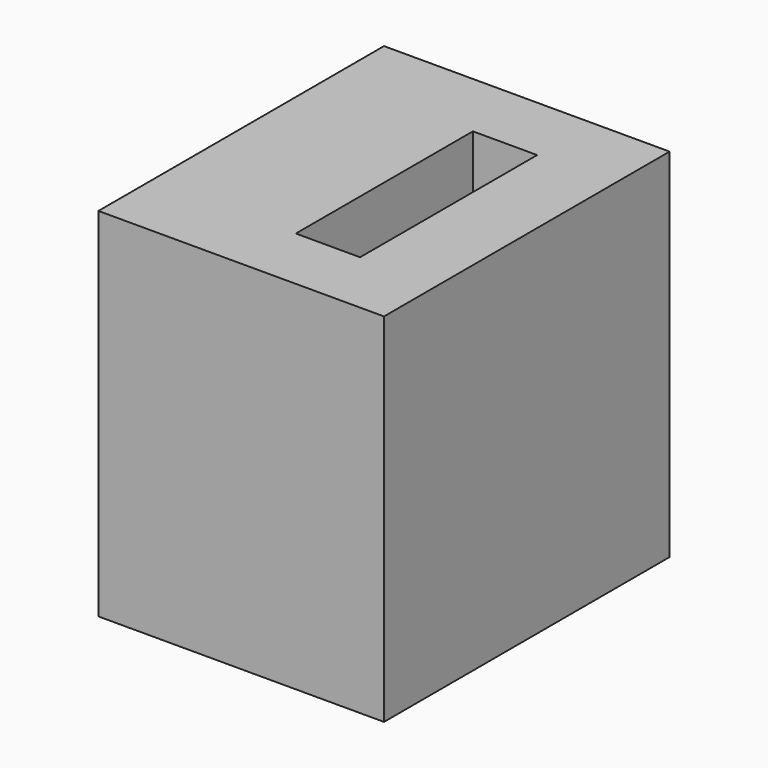
from build123d import *

# Parameters (mm, degrees)
SKETCH038_W             = 10
SKETCH038_H             = 10
PAD014_DEPTH            = 8
SKETCH039_R             = 1.45
POCKET009_DEPTH         = 5
SKETCH040_W             = 6.2
SKETCH040_H             = 1.8
POCKET010_DEPTH         = 15
BODY015_PLACEMENT_ANGLE = 90


with BuildPart() as part:
    # Sketch038 → Pad014 (new body)
    with BuildSketch(Plane.XY):
        with Locations((0.72243, -0.901424)):
            Rectangle(SKETCH038_W, SKETCH038_H)
    extrude(amount=PAD014_DEPTH)

    # Sketch039 (on Face6 of Pad014) → Pocket009 (cut)
    with BuildSketch(Plane.XY.offset(8)):
        with Locations((0.772802, -1.024983)):
            Circle(SKETCH039_R)
    extrude(amount=-POCKET009_DEPTH, mode=Mode.SUBTRACT)

    # Sketch040 (on Face2 of Pocket009) → Pocket010 (cut)
    with BuildSketch(Plane(origin=(-4.27757, 0, 0), x_dir=(0, -1, 0), z_dir=(-1, 0, 0))):
        with Locations((0.940135, 3.059345)):
            Rectangle(SKETCH040_W, SKETCH040_H)
    extrude(amount=-POCKET010_DEPTH, mode=Mode.SUBTRACT)


with BuildPart() as part_1:
    # Body015 placement: moved
    add(part.part.moved(Location((-51, 29, 0))).rotate(Axis((-51, 29, 0), (0, -1, 0)), BODY015_PLACEMENT_ANGLE))


solid = part_1.part
